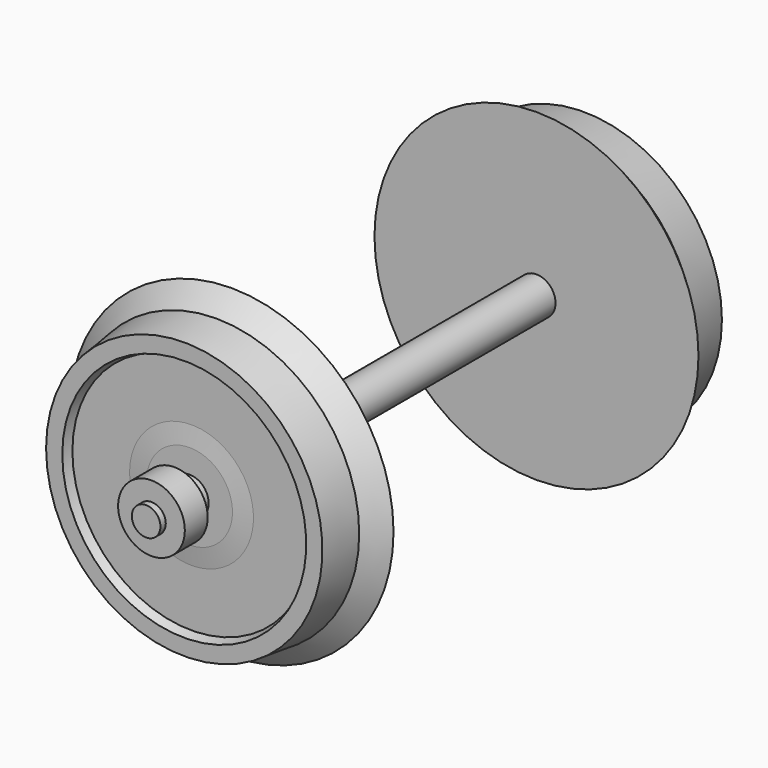
from build123d import *

# Parameters (mm, degrees)
CYLINDER032_R             = 2
CYLINDER032_DEPTH         = 10
CUT021_PLACEMENT_ANGLE    = 180
CYLINDER034_R             = 1.5
CYLINDER034_DEPTH         = 3
CYLINDER033_R             = 3.5
CYLINDER033_DEPTH         = 3
CUT022_PLACEMENT_ANGLE    = 90
CYLINDER030_R             = 1.5
CYLINDER030_DEPTH         = 3
CYLINDER029_R             = 3.5
CYLINDER029_DEPTH         = 3
CUT019_PLACEMENT_ANGLE    = 90
CYLINDER036_R             = 1.5
CYLINDER036_DEPTH         = 62.5
CYLINDER035_R             = 2
CYLINDER035_DEPTH         = 55
FUSION012_PLACEMENT_ANGLE = 90
CYLINDER031_R             = 2
CYLINDER031_DEPTH         = 10


with BuildPart() as cylinder032:
    # Cylinder032 → Cylinder032 (new body)
    with BuildSketch(Plane.XZ.offset(-8)):
        Circle(CYLINDER032_R)
    extrude(amount=CYLINDER032_DEPTH)


with BuildPart() as rad004:
    # Sketch005 → Revolve004 (revolve)
    with BuildSketch(Plane.XY):
        Polygon((0, 0), (17, 0), (15, 2), (14.5, 6.2), (12.8, 6.2), (12.5, 5.25), (6.5, 5.25), (4.5, 5.5), (0, 5.5), align=None)
    revolve(axis=Axis((0, 0, 0), (0, -1, 0)))

    # Cut021: cut Cylinder032
    add(cylinder032.part, mode=Mode.SUBTRACT)


with BuildPart() as rad004_1:
    # Cut021 placement: moved
    add(rad004.part.moved(Location((0, -40, 0))).rotate(Axis((0, -40, 0), (0, 0, 1)), CUT021_PLACEMENT_ANGLE))


with BuildPart() as cylinder034:
    # Cylinder034 → Cylinder034 (new body)
    with BuildSketch(Plane.XY):
        Circle(CYLINDER034_R)
    extrude(amount=CYLINDER034_DEPTH)


with BuildPart() as kugellager004:
    # Cylinder033 → Cylinder033 (new body)
    with BuildSketch(Plane.XY):
        Circle(CYLINDER033_R)
    extrude(amount=CYLINDER033_DEPTH)

    # Cut022: cut Cylinder034
    add(cylinder034.part, mode=Mode.SUBTRACT)


with BuildPart() as kugellager004_1:
    # Cut022 placement: moved
    add(kugellager004.part.moved(Location((0, -47.5, 0))).rotate(Axis((0, -47.5, 0), (1, 0, 0)), CUT022_PLACEMENT_ANGLE))


with BuildPart() as cylinder030:
    # Cylinder030 → Cylinder030 (new body)
    with BuildSketch(Plane.XY):
        Circle(CYLINDER030_R)
    extrude(amount=CYLINDER030_DEPTH)


with BuildPart() as kugellager003:
    # Cylinder029 → Cylinder029 (new body)
    with BuildSketch(Plane.XY):
        Circle(CYLINDER029_R)
    extrude(amount=CYLINDER029_DEPTH)

    # Cut019: cut Cylinder030
    add(cylinder030.part, mode=Mode.SUBTRACT)


with BuildPart() as kugellager003_1:
    # Cut019 placement: moved
    add(kugellager003.part.moved(Location((0, 10.5, 0))).rotate(Axis((0, 10.5, 0), (1, 0, 0)), CUT019_PLACEMENT_ANGLE))


with BuildPart() as cylinder036:
    # Cylinder036 → Cylinder036 (new body)
    with BuildSketch(Plane.XY):
        Circle(CYLINDER036_R)
    extrude(amount=CYLINDER036_DEPTH)


with BuildPart() as achse003:
    # Cylinder035 → Cylinder035 (new body)
    with BuildSketch(Plane.XY.offset(3.75)):
        Circle(CYLINDER035_R)
    extrude(amount=CYLINDER035_DEPTH)

    # Fusion012: union Cylinder036
    add(cylinder036.part)


with BuildPart() as achse003_1:
    # Fusion012 placement: moved
    add(achse003.part.moved(Location((0, 11.3, 0))).rotate(Axis((0, 11.3, 0), (1, 0, 0)), FUSION012_PLACEMENT_ANGLE))


with BuildPart() as cylinder031:
    # Cylinder031 → Cylinder031 (new body)
    with BuildSketch(Plane.XZ.offset(-8)):
        Circle(CYLINDER031_R)
    extrude(amount=CYLINDER031_DEPTH)


with BuildPart() as obj1:
    # Sketch005 → Revolve003 (revolve)
    with BuildSketch(Plane.XY):
        Polygon((0, 0), (17, 0), (15, 2), (14.5, 6.2), (12.8, 6.2), (12.5, 5.25), (6.5, 5.25), (4.5, 5.5), (0, 5.5), align=None)
    revolve(axis=Axis((0, 0, 0), (0, -1, 0)))

    # Cut020: cut Cylinder031
    add(cylinder031.part, mode=Mode.SUBTRACT)

    # Fusion013: union Rad004, Kugellager004, Kugellager003, Achse003
    add(rad004_1.part)
    add(kugellager004_1.part)
    add(kugellager003_1.part)
    add(achse003_1.part)


with BuildPart() as obj1_1:
    # Fusion013 placement: moved
    add(obj1.part.moved(Location((70.08, -11.75, -7))))


solid = obj1_1.part
